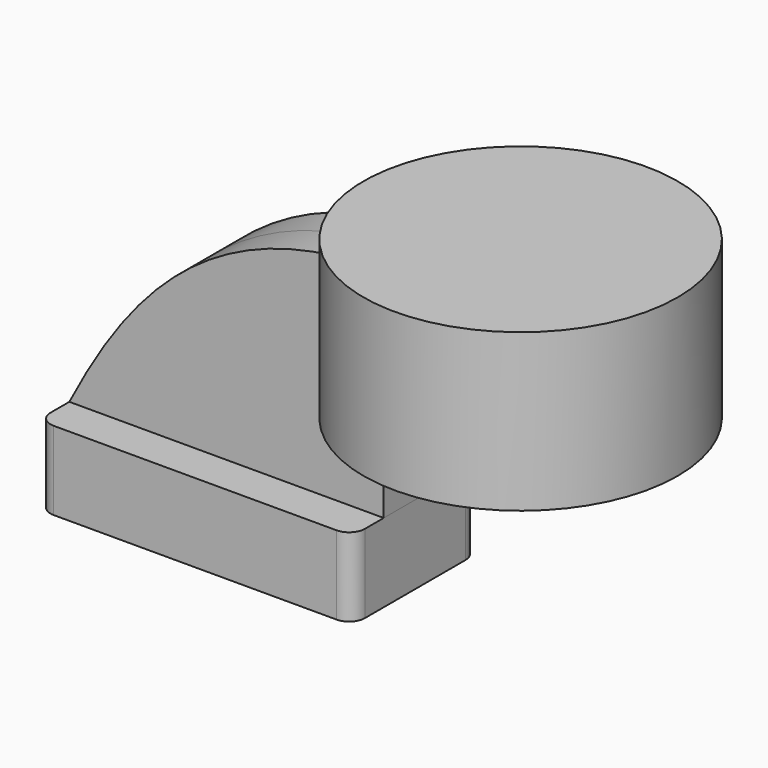
from build123d import *

# Parameters (mm, degrees)
F1_DEPTH = 25
F2_DEPTH = 12.5
F4_R     = 5


with BuildPart() as f1:
    # F0 (on Front) → F1 (new body, symmetric)
    with BuildSketch(Plane.XZ):
        Polygon((25, 12.5), (-50, 12.5), (-50, -12.5), (50, -12.5), (50, 12.5), align=None)
    extrude(amount=F1_DEPTH, both=True)

    # F4
    f4_edges = [f1.edges().sort_by_distance(p)[0] for p in [
        (-50, -25, 0),
        (50, -25, 0),
        (50, 25, 0),
        (-50, 25, 0),
    ]]
    fillet(f4_edges, radius=F4_R)


with BuildPart() as f2:
    # F0 (on Front) → F2 (new body, symmetric)
    with BuildSketch(Plane.XZ):
        with BuildLine():
            add(Edge.make_bspline(
                [(-50, 12.5), (-29.468646, 52.234761), (0, 88.832878), (68, 80.5)],
                knots=[0, 0, 0, 0, 136.191042, 136.191042, 136.191042, 136.191042], degree=3))
            Line((-50, 12.5), (25, 12.5))
            Line((25, 12.5), (25, 37.5))
            ThreePointArc((25, 37.5), (37.594408, 67.905592), (68, 80.5))
        make_face()
        with BuildLine():
            Line((25, 37.5), (25, 12.5))
            Line((25, 12.5), (50, 12.5))
            Line((50, 12.5), (50, 37.5))
            ThreePointArc((50, 37.5), (55.272078, 50.227922), (68, 55.5))
            Line((68, 55.5), (83.532405, 55.5))
            Line((83.532405, 55.5), (83.532405, 80.5))
            Line((83.532405, 80.5), (68, 80.5))
            ThreePointArc((68, 80.5), (37.594408, 67.905592), (25, 37.5))
        make_face()
    extrude(amount=F2_DEPTH, both=True)

    # F0 (on Front) → F3 (revolve)
    with BuildSketch(Plane.XZ):
        Polygon((83.532405, 96.357065), (83.532405, 80.5), (112.17733, 80.5), (112.17733, 55.5), (83.532405, 55.5), (83.532405, 46.357065), (133.532405, 46.357065), (133.532405, 96.357065), align=None)
    revolve(axis=Axis((83.532405, 0, 71.357065), (0, 0, 1)))


solid = Compound([f1.part, f2.part])
